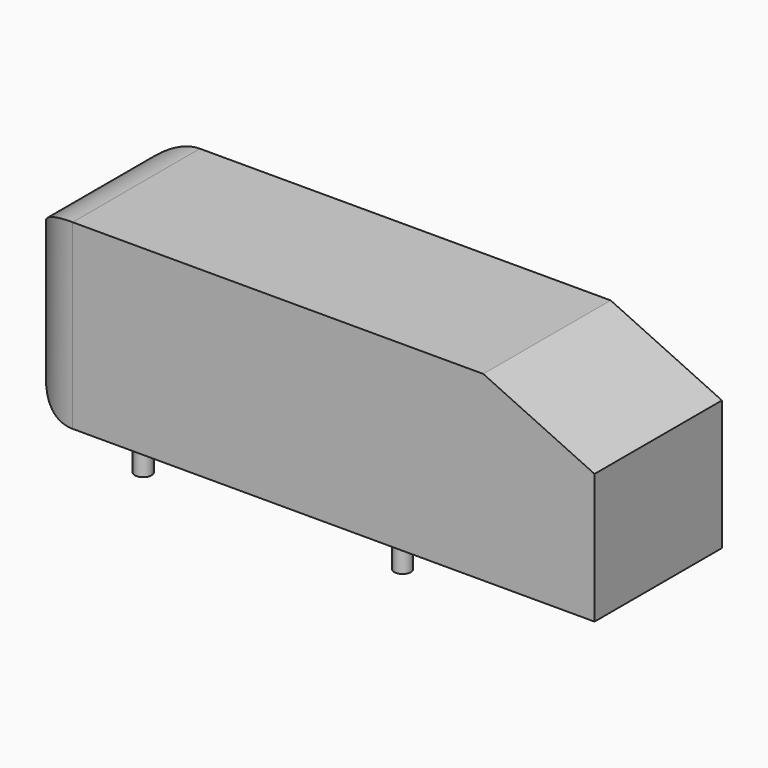
from build123d import *

# Parameters (mm, degrees)
F0_W     = 1044
F0_H     = 329
F1_DEPTH = 288
F2_R     = 100
F4_DEPTH = 288.001
F5_R     = 15
F6_DEPTH = 50


with BuildPart() as f1:
    # F0 (on Front) → F1 (new body)
    with BuildSketch(Plane.XZ):
        with Locations((-3.758688, 55.06163)):
            Rectangle(F0_W, F0_H)
    extrude(amount=-F1_DEPTH)

    # F2
    f2_edges = [f1.edges().sort_by_distance(p)[0] for p in [
        (-525.758688, 144, 219.56163),
        (-525.758688, 144, -109.43837),
        (-525.758688, 0, 55.06163),
        (-525.758688, 288, 55.06163),
    ]]
    fillet(f2_edges, radius=F2_R)

    # F3 (on face) → F4 (cut, through all)
    with BuildSketch(Plane.XZ):
        Polygon((518.241312, 219.56163), (317.040984, 219.56163), (518.241312, 125.740376), align=None)
    extrude(amount=-F4_DEPTH, mode=Mode.SUBTRACT)

    # F5 (on face) → F6 (join)
    with BuildSketch(Plane(origin=(0, 0, -109.43837), x_dir=(1, 0, 0), z_dir=(0, 0, -1))):
        with Locations((-324.758688, -33.373285)):
            Circle(F5_R)
        with Locations((146.241312, -31.188212)):
            Circle(F5_R)
        with Locations((-324.758688, -254.626715)):
            Circle(F5_R)
        with Locations((146.241312, -256.811788)):
            Circle(F5_R)
    extrude(amount=F6_DEPTH)


solid = f1.part
